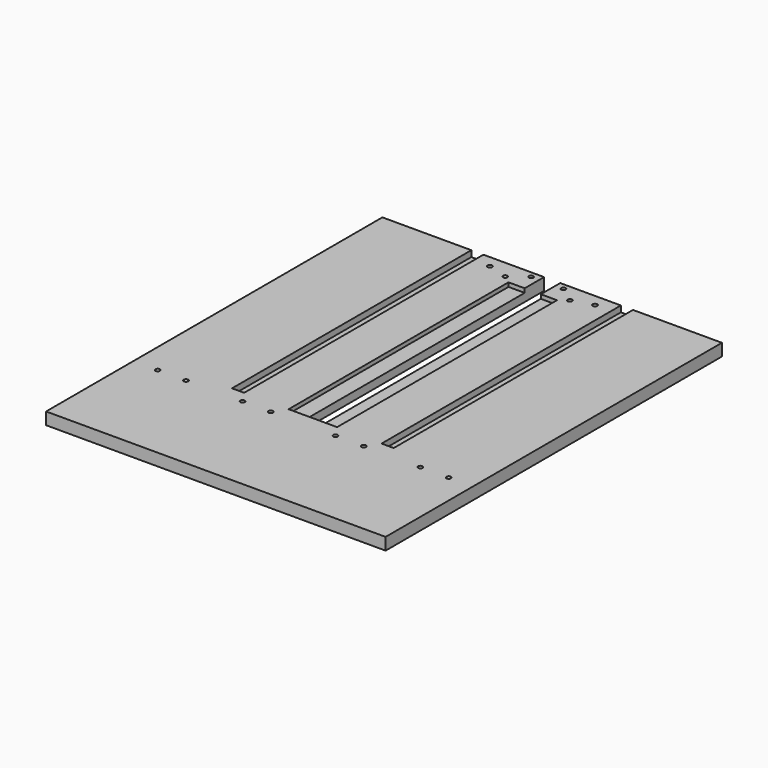
from build123d import *

# Parameters (mm, degrees)
PAD_DEPTH        = 19.05
SKETCH002_W      = 19.05
SKETCH002_H      = 469.9
POCKET001_DEPTH  = 9.525
HOLE_D           = 7.1
HOLE_CSINK_D     = 12.07
HOLE_CSINK_ANGLE = 82
SKETCH005_W      = 25.4
SKETCH005_H      = 431.8
POCKET_DEPTH     = 6.35


with BuildPart() as part:
    # Sketch → Pad (new body)
    with BuildSketch(Plane.XY):
        Polygon((-127, -330.2), (-127, 330.2), (127, 330.2), (127, -139.7), (139.7, -139.7), (139.7, -330.2), align=None)
    pad = extrude(amount=PAD_DEPTH)

    # Sketch002 → Pocket001 (cut)
    with BuildSketch(Plane.XY.offset(19.05)):
        with Locations((22.225, 95.25)):
            Rectangle(SKETCH002_W, SKETCH002_H)
    pocket001 = extrude(amount=-POCKET001_DEPTH, mode=Mode.SUBTRACT)

    # Hole (through all)
    with Locations(Plane(origin=(0, 0, 0), x_dir=(1, 0, 0), z_dir=(0, 0, -1))):
        with Locations((-88.9, 158.75), (88.9, 158.75), (-44.45, 158.75), (44.45, 158.75), (57.15, -311.15), (88.9, -301.625), (114.3, -320.675)):
            hole = CounterSinkHole(HOLE_D / 2, HOLE_CSINK_D / 2, counter_sink_angle=HOLE_CSINK_ANGLE)

    # Sketch005 (on Face5 of Hole) → Pocket (cut)
    with BuildSketch(Plane.XY.offset(19.05)):
        with Locations((114.3, 76.2)):
            Rectangle(SKETCH005_W, SKETCH005_H)
    pocket = extrude(amount=-POCKET_DEPTH, mode=Mode.SUBTRACT)

    # Mirrored: Pad, Pocket001, Hole, Pocket across face of Pocket
    add(pad.mirror(Plane(origin=(139.7, -234.95, 9.525), x_dir=(0, 1, 0), z_dir=(1, 0, 0))))
    add(pocket001.mirror(Plane(origin=(139.7, -234.95, 9.525), x_dir=(0, 1, 0), z_dir=(1, 0, 0))), mode=Mode.SUBTRACT)
    add(hole.mirror(Plane(origin=(139.7, -234.95, 9.525), x_dir=(0, 1, 0), z_dir=(1, 0, 0))), mode=Mode.SUBTRACT)
    add(pocket.mirror(Plane(origin=(139.7, -234.95, 9.525), x_dir=(0, 1, 0), z_dir=(1, 0, 0))), mode=Mode.SUBTRACT)


solid = part.part
